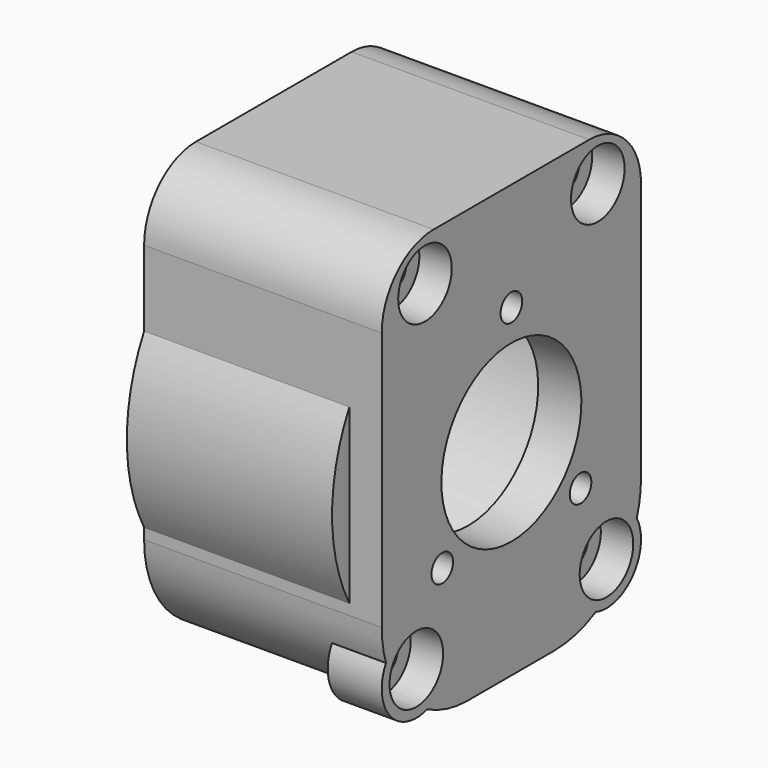
from build123d import *

# Parameters (mm, degrees)
CYLINDER050_R           = 1.25
CYLINDER050_DEPTH       = 10
CYLINDER050_PITCH_ANGLE = 90
CYLINDER045_R           = 1.25
CYLINDER045_DEPTH       = 10
CYLINDER045_PITCH_ANGLE = 90
CYLINDER046_R           = 1.25
CYLINDER046_DEPTH       = 10
CYLINDER046_PITCH_ANGLE = 90
CYLINDER032_R           = 8.1
CYLINDER032_DEPTH       = 5
CYLINDER032_PITCH_ANGLE = 90
CYLINDER017_R           = 1.6
CYLINDER017_DEPTH       = 25
CYLINDER017_PITCH_ANGLE = 90
CYLINDER018_R           = 3.1
CYLINDER018_DEPTH       = 4
CYLINDER018_PITCH_ANGLE = 90
CYLINDER019_R           = 1.6
CYLINDER019_DEPTH       = 25
CYLINDER019_PITCH_ANGLE = 90
CYLINDER020_R           = 3.1
CYLINDER020_DEPTH       = 4
CYLINDER020_PITCH_ANGLE = 90
CYLINDER015_R           = 1.6
CYLINDER015_DEPTH       = 25
CYLINDER015_PITCH_ANGLE = 90
CYLINDER016_R           = 3.1
CYLINDER016_DEPTH       = 4
CYLINDER016_PITCH_ANGLE = 90
CYLINDER013_R           = 1.6
CYLINDER013_DEPTH       = 25
CYLINDER013_PITCH_ANGLE = 90
CYLINDER014_R           = 3.1
CYLINDER014_DEPTH       = 4
CYLINDER014_PITCH_ANGLE = 90
CYLINDER012_R           = 15.5
CYLINDER012_DEPTH       = 18
CYLINDER012_PITCH_ANGLE = 90
CYLINDER022_R           = 4
CYLINDER022_DEPTH       = 5
CYLINDER022_PITCH_ANGLE = 90
CYLINDER021_R           = 4
CYLINDER021_DEPTH       = 5
CYLINDER021_PITCH_ANGLE = 90
BOX007_W                = 33
BOX007_H                = 30
BOX007_DEPTH            = 40
CYLINDER003_R           = 17
CYLINDER003_DEPTH       = 19
CYLINDER003_PITCH_ANGLE = 90
BOX001_W                = 23
BOX001_H                = 30
BOX001_DEPTH            = 35
FILLET002_R             = 10
FILLET004_R             = 6
BOX_W                   = 32
BOX_H                   = 30
BOX_DEPTH               = 40
FILLET003_R             = 10
FILLET005_R             = 6


with BuildPart() as cylinder050:
    # Cylinder050 → Cylinder050 (new body)
    with BuildSketch(Plane.XY):
        Circle(CYLINDER050_R)
    extrude(amount=CYLINDER050_DEPTH)


with BuildPart() as cylinder050_1:
    # Cylinder050 pitch: moved
    add(cylinder050.part.rotate(Axis((0, 0, 0), (0, 1, 0)), CYLINDER050_PITCH_ANGLE))


with BuildPart() as cylinder050_2:
    # Cylinder050 placement: moved
    add(cylinder050_1.part.moved(Location((48, 15, 30))))


with BuildPart() as cylinder045:
    # Cylinder045 → Cylinder045 (new body)
    with BuildSketch(Plane.XY):
        Circle(CYLINDER045_R)
    extrude(amount=CYLINDER045_DEPTH)


with BuildPart() as cylinder045_1:
    # Cylinder045 pitch: moved
    add(cylinder045.part.rotate(Axis((0, 0, 0), (0, 1, 0)), CYLINDER045_PITCH_ANGLE))


with BuildPart() as cylinder045_2:
    # Cylinder045 placement: moved
    add(cylinder045_1.part.moved(Location((47, 7, 12))))


with BuildPart() as fusion023:
    # Cylinder046 → Cylinder046 (new body)
    with BuildSketch(Plane.XY):
        Circle(CYLINDER046_R)
    extrude(amount=CYLINDER046_DEPTH)


with BuildPart() as fusion023_1:
    # Cylinder046 pitch: moved
    add(fusion023.part.rotate(Axis((0, 0, 0), (0, 1, 0)), CYLINDER046_PITCH_ANGLE))


with BuildPart() as fusion023_2:
    # Cylinder046 placement: moved
    add(fusion023_1.part.moved(Location((46, 23, 12))))

    # Fusion023: union Cylinder045
    add(cylinder045_2.part)


with BuildPart() as cylinder032:
    # Cylinder032 → Cylinder032 (new body)
    with BuildSketch(Plane.XY):
        Circle(CYLINDER032_R)
    extrude(amount=CYLINDER032_DEPTH)


with BuildPart() as cylinder032_1:
    # Cylinder032 pitch: moved
    add(cylinder032.part.rotate(Axis((0, 0, 0), (0, 1, 0)), CYLINDER032_PITCH_ANGLE))


with BuildPart() as cylinder032_2:
    # Cylinder032 placement: moved
    add(cylinder032_1.part.moved(Location((51, 15, 19))))


with BuildPart() as cylinder017:
    # Cylinder017 → Cylinder017 (new body)
    with BuildSketch(Plane.XY):
        Circle(CYLINDER017_R)
    extrude(amount=CYLINDER017_DEPTH)


with BuildPart() as cylinder017_1:
    # Cylinder017 pitch: moved
    add(cylinder017.part.rotate(Axis((0, 0, 0), (0, 1, 0)), CYLINDER017_PITCH_ANGLE))


with BuildPart() as cylinder017_2:
    # Cylinder017 placement: moved
    add(cylinder017_1.part.moved(Location((30, 0, 19))))


with BuildPart() as fusion010:
    # Cylinder018 → Cylinder018 (new body)
    with BuildSketch(Plane.XY):
        Circle(CYLINDER018_R)
    extrude(amount=CYLINDER018_DEPTH)


with BuildPart() as fusion010_1:
    # Cylinder018 pitch: moved
    add(fusion010.part.rotate(Axis((0, 0, 0), (0, 1, 0)), CYLINDER018_PITCH_ANGLE))


with BuildPart() as fusion010_2:
    # Cylinder018 placement: moved
    add(fusion010_1.part.moved(Location((51, 0, 19))))

    # Fusion010: union Cylinder017
    add(cylinder017_2.part)


with BuildPart() as fusion010_3:
    # Fusion010 placement: moved
    add(fusion010_2.part.moved(Location((0, 25, 17))))


with BuildPart() as cylinder019:
    # Cylinder019 → Cylinder019 (new body)
    with BuildSketch(Plane.XY):
        Circle(CYLINDER019_R)
    extrude(amount=CYLINDER019_DEPTH)


with BuildPart() as cylinder019_1:
    # Cylinder019 pitch: moved
    add(cylinder019.part.rotate(Axis((0, 0, 0), (0, 1, 0)), CYLINDER019_PITCH_ANGLE))


with BuildPart() as cylinder019_2:
    # Cylinder019 placement: moved
    add(cylinder019_1.part.moved(Location((30, 0, 19))))


with BuildPart() as fusion011:
    # Cylinder020 → Cylinder020 (new body)
    with BuildSketch(Plane.XY):
        Circle(CYLINDER020_R)
    extrude(amount=CYLINDER020_DEPTH)


with BuildPart() as fusion011_1:
    # Cylinder020 pitch: moved
    add(fusion011.part.rotate(Axis((0, 0, 0), (0, 1, 0)), CYLINDER020_PITCH_ANGLE))


with BuildPart() as fusion011_2:
    # Cylinder020 placement: moved
    add(fusion011_1.part.moved(Location((51, 0, 19))))

    # Fusion011: union Cylinder019
    add(cylinder019_2.part)


with BuildPart() as fusion011_3:
    # Fusion011 placement: moved
    add(fusion011_2.part.moved(Location((0, 26, -14))))


with BuildPart() as cylinder015:
    # Cylinder015 → Cylinder015 (new body)
    with BuildSketch(Plane.XY):
        Circle(CYLINDER015_R)
    extrude(amount=CYLINDER015_DEPTH)


with BuildPart() as cylinder015_1:
    # Cylinder015 pitch: moved
    add(cylinder015.part.rotate(Axis((0, 0, 0), (0, 1, 0)), CYLINDER015_PITCH_ANGLE))


with BuildPart() as cylinder015_2:
    # Cylinder015 placement: moved
    add(cylinder015_1.part.moved(Location((30, 0, 19))))


with BuildPart() as fusion009:
    # Cylinder016 → Cylinder016 (new body)
    with BuildSketch(Plane.XY):
        Circle(CYLINDER016_R)
    extrude(amount=CYLINDER016_DEPTH)


with BuildPart() as fusion009_1:
    # Cylinder016 pitch: moved
    add(fusion009.part.rotate(Axis((0, 0, 0), (0, 1, 0)), CYLINDER016_PITCH_ANGLE))


with BuildPart() as fusion009_2:
    # Cylinder016 placement: moved
    add(fusion009_1.part.moved(Location((51, 0, 19))))

    # Fusion009: union Cylinder015
    add(cylinder015_2.part)


with BuildPart() as fusion009_3:
    # Fusion009 placement: moved
    add(fusion009_2.part.moved(Location((0, 5, 17))))


with BuildPart() as cylinder013:
    # Cylinder013 → Cylinder013 (new body)
    with BuildSketch(Plane.XY):
        Circle(CYLINDER013_R)
    extrude(amount=CYLINDER013_DEPTH)


with BuildPart() as cylinder013_1:
    # Cylinder013 pitch: moved
    add(cylinder013.part.rotate(Axis((0, 0, 0), (0, 1, 0)), CYLINDER013_PITCH_ANGLE))


with BuildPart() as cylinder013_2:
    # Cylinder013 placement: moved
    add(cylinder013_1.part.moved(Location((30, 0, 19))))


with BuildPart() as fusion013:
    # Cylinder014 → Cylinder014 (new body)
    with BuildSketch(Plane.XY):
        Circle(CYLINDER014_R)
    extrude(amount=CYLINDER014_DEPTH)


with BuildPart() as fusion013_1:
    # Cylinder014 pitch: moved
    add(fusion013.part.rotate(Axis((0, 0, 0), (0, 1, 0)), CYLINDER014_PITCH_ANGLE))


with BuildPart() as fusion013_2:
    # Cylinder014 placement: moved
    add(fusion013_1.part.moved(Location((51, 0, 19))))

    # Fusion008: union Cylinder013
    add(cylinder013_2.part)


with BuildPart() as fusion013_3:
    # Fusion008 placement: moved
    add(fusion013_2.part.moved(Location((0, 4, -14))))

    # Fusion013: union Fusion010, Fusion011, Fusion009
    add(fusion010_3.part)
    add(fusion011_3.part)
    add(fusion009_3.part)


with BuildPart() as fusion013_4:
    # Fusion013 placement: moved
    add(fusion013_3.part.moved(Location((1, 0, 0))))


with BuildPart() as cylinder012:
    # Cylinder012 → Cylinder012 (new body)
    with BuildSketch(Plane.XY):
        Circle(CYLINDER012_R)
    extrude(amount=CYLINDER012_DEPTH)


with BuildPart() as cylinder012_1:
    # Cylinder012 pitch: moved
    add(cylinder012.part.rotate(Axis((0, 0, 0), (0, 1, 0)), CYLINDER012_PITCH_ANGLE))


with BuildPart() as cylinder012_2:
    # Cylinder012 placement: moved
    add(cylinder012_1.part.moved(Location((33, 15, 19))))


with BuildPart() as cylinder022:
    # Cylinder022 → Cylinder022 (new body)
    with BuildSketch(Plane.XY):
        Circle(CYLINDER022_R)
    extrude(amount=CYLINDER022_DEPTH)


with BuildPart() as cylinder022_1:
    # Cylinder022 pitch: moved
    add(cylinder022.part.rotate(Axis((0, 0, 0), (0, 1, 0)), CYLINDER022_PITCH_ANGLE))


with BuildPart() as cylinder022_2:
    # Cylinder022 placement: moved
    add(cylinder022_1.part.moved(Location((50, 26, 5))))


with BuildPart() as cylinder021:
    # Cylinder021 → Cylinder021 (new body)
    with BuildSketch(Plane.XY):
        Circle(CYLINDER021_R)
    extrude(amount=CYLINDER021_DEPTH)


with BuildPart() as cylinder021_1:
    # Cylinder021 pitch: moved
    add(cylinder021.part.rotate(Axis((0, 0, 0), (0, 1, 0)), CYLINDER021_PITCH_ANGLE))


with BuildPart() as cylinder021_2:
    # Cylinder021 placement: moved
    add(cylinder021_1.part.moved(Location((50, 4, 5))))


with BuildPart() as box007:
    # Box007 → Box007 (new body)
    with BuildSketch(Plane.XY):
        with Locations((16.5, 15)):
            Rectangle(BOX007_W, BOX007_H)
    extrude(amount=BOX007_DEPTH)


with BuildPart() as cylinder003:
    # Cylinder003 → Cylinder003 (new body)
    with BuildSketch(Plane.XY):
        Circle(CYLINDER003_R)
    extrude(amount=CYLINDER003_DEPTH)


with BuildPart() as cylinder003_1:
    # Cylinder003 pitch: moved
    add(cylinder003.part.rotate(Axis((0, 0, 0), (0, 1, 0)), CYLINDER003_PITCH_ANGLE))


with BuildPart() as cylinder003_2:
    # Cylinder003 placement: moved
    add(cylinder003_1.part.moved(Location((33, 15, 19))))


with BuildPart() as fillet004:
    # Box001 → Box001 (new body)
    with BuildSketch(Plane.XY.offset(5)):
        with Locations((11.5, 15)):
            Rectangle(BOX001_W, BOX001_H)
    extrude(amount=BOX001_DEPTH)

    # Fillet002
    fillet002_edges = [fillet004.edges().sort_by_distance(p)[0] for p in [
        (11.5, 0, 5),
        (11.5, 30, 5),
    ]]
    fillet(fillet002_edges, radius=FILLET002_R)

    # Fillet004
    fillet004_edges = [fillet004.edges().sort_by_distance(p)[0] for p in [
        (11.5, 0, 40),
        (11.5, 30, 40),
    ]]
    fillet(fillet004_edges, radius=FILLET004_R)


with BuildPart() as rear_part:
    # Box → Box (new body)
    with BuildSketch(Plane(origin=(23, 0, 0), x_dir=(1, 0, 0), z_dir=(0, 0, 1))):
        with Locations((16, 15)):
            Rectangle(BOX_W, BOX_H)
    extrude(amount=BOX_DEPTH)

    # Fillet003
    fillet003_edges = [rear_part.edges().sort_by_distance(p)[0] for p in [
        (39, 0, 0),
        (39, 30, 0),
    ]]
    fillet(fillet003_edges, radius=FILLET003_R)

    # Fillet005
    fillet005_edges = [rear_part.edges().sort_by_distance(p)[0] for p in [
        (39, 0, 40),
        (39, 30, 40),
    ]]
    fillet(fillet005_edges, radius=FILLET005_R)

    # Fusion004: union Fillet004
    add(fillet004.part)

    # Fusion006: union Cylinder003
    add(cylinder003_2.part)

    # Cut005: cut Box007
    add(box007.part, mode=Mode.SUBTRACT)

    # Fusion014: union Cylinder022, Cylinder021
    add(cylinder022_2.part)
    add(cylinder021_2.part)

    # Cut007: cut Cylinder012
    add(cylinder012_2.part, mode=Mode.SUBTRACT)

    # Cut008: cut Fusion013
    add(fusion013_4.part, mode=Mode.SUBTRACT)

    # Cut011: cut Cylinder032
    add(cylinder032_2.part, mode=Mode.SUBTRACT)

    # Cut015: cut Fusion023
    add(fusion023_2.part, mode=Mode.SUBTRACT)

    # Cut018: cut Cylinder050
    add(cylinder050_2.part, mode=Mode.SUBTRACT)


solid = rear_part.part
